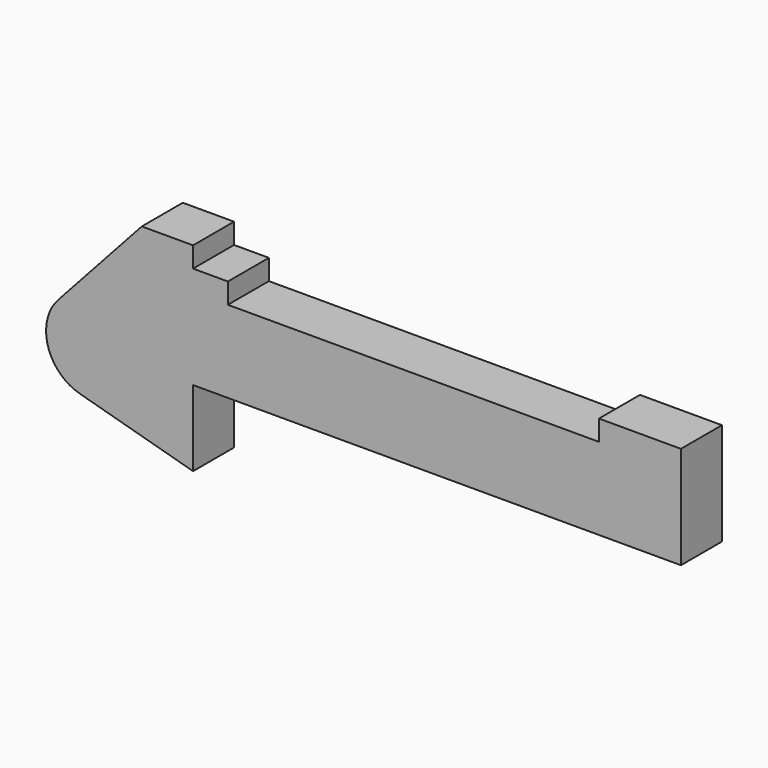
from build123d import *

# Parameters (mm, degrees)
F0_R     = 3.175
F0_W     = 5.842
F0_H     = 12.7
F1_DEPTH = 6.35


with BuildPart() as f1:
    # F0 (on Front) → F1 (new body)
    with BuildSketch(Plane.XZ):
        Polygon((5.842, 12.7), (5.842, 0), (66.294, 0), (66.294, 12.7), (56.134, 12.7), (56.134, 10.16), (10.16, 10.16), (10.16, 12.7), align=None)
        with BuildLine():
            ThreePointArc((-8.1826630726, -5.5069827884), (-3.1957909266, -4.5493385486), (-0.9398, 0))
            ThreePointArc((-0.9398, 0), (-4.5919612295, 5.3297205562), (-10.8806298187, 3.8475430269))
            ThreePointArc((-10.8806298187, 3.8475430269), (-12.1459778134, -1.5837270034), (-8.1826630726, -5.5069827884))
        make_face()
        with Locations((-6.6548, 0)):
            Circle(F0_R, mode=Mode.SUBTRACT)
        with BuildLine():
            Line((-0.9398, 0), (0, 0))
            Line((0, 0), (0, 12.7))
            Line((0, 12.7), (5.842, 12.7))
            Line((5.842, 12.7), (5.842, 15.24))
            Line((5.842, 15.24), (-0.508, 15.24))
            Line((-0.508, 15.24), (-10.8806298187, 3.8475430269))
            ThreePointArc((-10.8806298187, 3.8475430269), (-4.5919612295, 5.3297205562), (-0.9398, 0))
        make_face()
        with Locations((2.921, 6.35)):
            Rectangle(F0_W, F0_H)
        with BuildLine():
            Line((5.842, 0), (0, 0))
            Line((0, 0), (-0.9398, 0))
            ThreePointArc((-0.9398, 0), (-3.1957909266, -4.5493385486), (-8.1826630726, -5.5069827884))
            Line((-8.1826630726, -5.5069827884), (5.842, -9.398))
            Line((5.842, -9.398), (5.842, 0))
        make_face()
        with Locations((-6.6548, 0)):
            Circle(F0_R)
    extrude(amount=F1_DEPTH)


solid = f1.part
